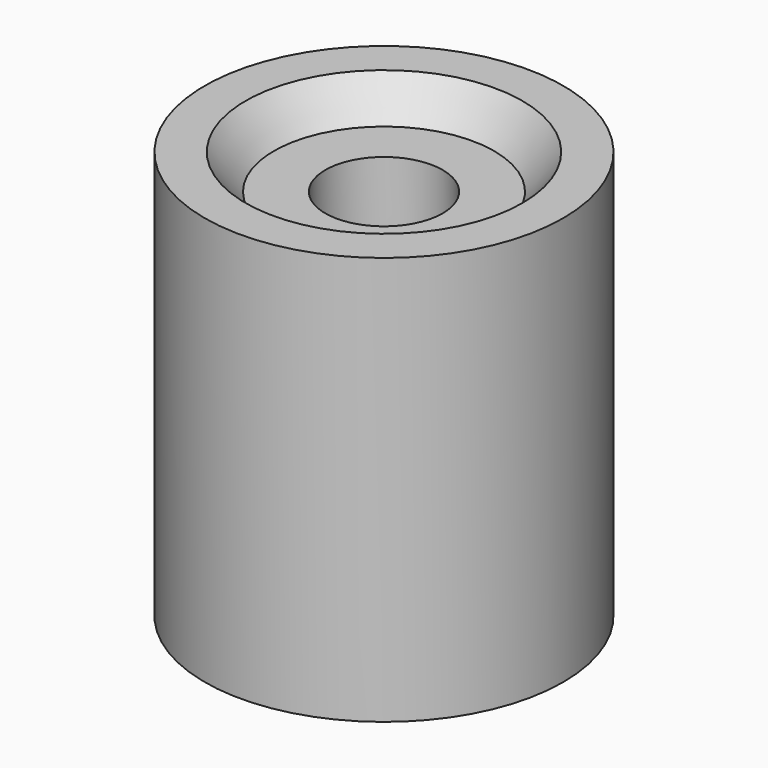
from build123d import *

# Parameters (mm, degrees)
F3_DEPTH  = 22.861
F5_W      = 10.16
F5_H      = 9.652
F6_DEPTH  = 0.635
F7_R      = 1.524
F8_DEPTH  = 10.16
F9_W      = 2.794
F9_H      = 6.096
F10_DEPTH = 6.6


with BuildPart() as f1:
    # F0 (on Front) → F1 (revolve)
    with BuildSketch(Plane.XZ):
        Polygon((0, 6.846469), (0, 0), (10.033, 0), (10.033, 22.86), (7.747, 22.86), (6.164025, 20.9042), (3.285246, 20.9042), (3.285246, 16.840607), (2.254922, 16.840607), (2.254922, 6.846469), (2.048858, 6.846469), align=None)
    revolve(axis=Axis((0, 0, 8.086767), (0, 0, -1)))

    # F2 (on face) → F3 (cut, through all)
    with BuildSketch(Plane(origin=(0, 0, 0), x_dir=(1, 0, 0), z_dir=(0, 0, -1))):
        with BuildLine():
            ThreePointArc((-2.1082, -1.505901), (2.5908, 0), (-2.1082, 1.505901))
            Line((-2.1082, 1.505901), (-2.1082, -1.505901))
        make_face()
    extrude(amount=-F3_DEPTH, mode=Mode.SUBTRACT)

    # F5 (on offset) → F6 (cut)
    with BuildSketch(Plane.YZ.offset(-10.16)):
        with Locations((0, 4.826)):
            Rectangle(F5_W, F5_H)
    extrude(amount=F6_DEPTH, mode=Mode.SUBTRACT)

    # F7 (on offset) → F8 (cut, through all)
    with BuildSketch(Plane.YZ.offset(-10.16)):
        with Locations((0, 4.7752)):
            Circle(F7_R)
    extrude(amount=F8_DEPTH, mode=Mode.SUBTRACT)

    # F9 (on face) → F10 (cut)
    with BuildSketch(Plane(origin=(0, 0, 0), x_dir=(1, 0, 0), z_dir=(0, 0, -1))):
        with Locations((-6.35, 0)):
            Rectangle(F9_W, F9_H)
    extrude(amount=-F10_DEPTH, mode=Mode.SUBTRACT)


solid = f1.part
